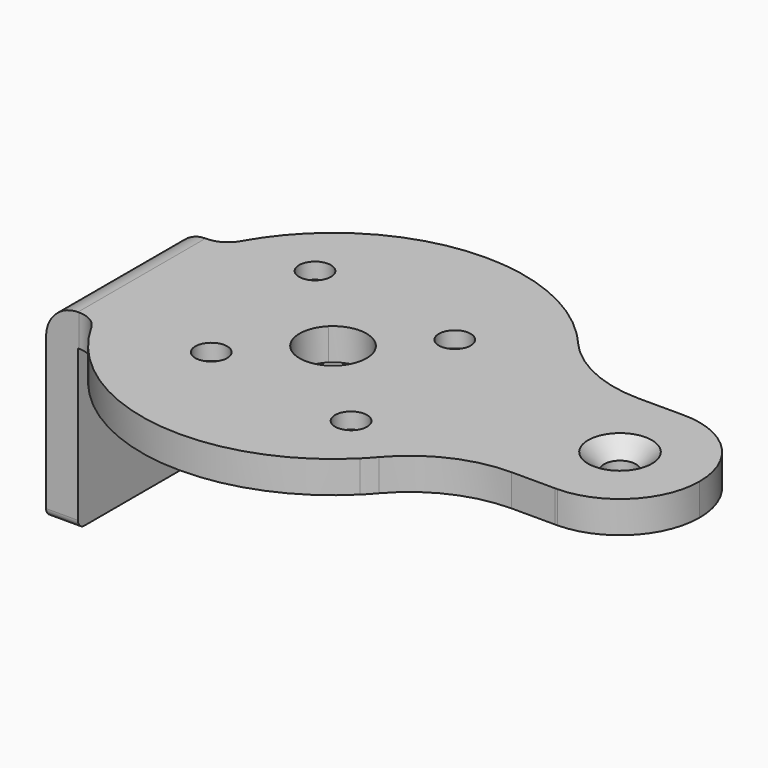
from build123d import *

# Parameters (mm, degrees)
F1_DEPTH        = 2
F3_DEPTH        = 5
F4_R            = 1.7
F5_R            = 1.7
F7_D            = 2
F7_CSINK_D      = 4
F7_CSINK_ANGLE  = 90
F8_DEPTH        = 2
F9_D            = 2
F9_CSINK_D      = 4
F9_CSINK_ANGLE  = 90
F10_R           = 0.5
F12_D           = 2
F12_CSINK_D     = 4
F12_CSINK_ANGLE = 90


with BuildPart() as f1:
    # F0 (on Top) → F1 (new body)
    with BuildSketch(Plane.XY):
        with BuildLine():
            ThreePointArc((10.9090595084, -4.9992420067), (11.7240930161, -2.5584454166), (12, 0))
            ThreePointArc((12, 0), (11.7240719072, 2.5585421465), (10.9089770141, 4.9994220172))
            ThreePointArc((10.9089770141, 4.9994220172), (10.1116451525, 6.4617824406), (9.1195071029, 7.7996532103))
            ThreePointArc((9.1195071029, 7.7996532103), (8.8090672506, 8.1486400199), (8.4852813742, 8.4852813742))
            Line((8.4852813742, 8.4852813742), (5.6568542495, 5.6568542495))
            ThreePointArc((5.6568542495, 5.6568542495), (7.3910362601, 3.0614674589), (8, 0))
            ThreePointArc((8, 0), (7.3910362601, -3.0614674589), (5.6568542495, -5.6568542495))
            Line((5.6568542495, -5.6568542495), (8.4852813742, -8.4852813742))
            ThreePointArc((8.4852813742, -8.4852813742), (8.8091155041, -8.1485878553), (9.1195994764, -7.799545204))
            ThreePointArc((9.1195994764, -7.799545204), (10.1117367293, -6.4616391356), (10.9090595084, -4.9992420067))
        make_face()
        with BuildLine():
            ThreePointArc((10.9089770141, 4.9994220172), (11.7240719072, 2.5585421465), (12, 0))
            ThreePointArc((12, 0), (11.7240930161, -2.5584454166), (10.9090595084, -4.9992420067))
            Line((10.9090595084, -4.9992420067), (15.1993324607, -4.9992420067))
            Line((15.1993324607, -4.9992420067), (17.9129404916, -4.9992420067))
            ThreePointArc((17.9129404916, -4.9992420067), (13.0000030459, 0.0055189952), (17.9239770141, 4.9994220172))
            Line((17.9239770141, 4.9994220172), (15.1991785048, 4.9994220172))
            Line((15.1991785048, 4.9994220172), (10.9089770141, 4.9994220172))
        make_face()
        with BuildLine():
            ThreePointArc((9.1195071029, 7.7996532103), (10.1116451525, 6.4617824406), (10.9089770141, 4.9994220172))
            Line((10.9089770141, 4.9994220172), (15.1991785048, 4.9994220172))
            ThreePointArc((15.1991785048, 4.9994220172), (11.8524002372, 5.7331248014), (9.1195071029, 7.7996532103))
        make_face()
        with BuildLine():
            Line((15.1993324607, -4.9992420067), (10.9090595084, -4.9992420067))
            ThreePointArc((10.9090595084, -4.9992420067), (10.1117367293, -6.4616391356), (9.1195994764, -7.799545204))
            ThreePointArc((9.1195994764, -7.799545204), (11.8525111644, -5.7329646097), (15.1993324607, -4.9992420067))
        make_face()
        with BuildLine():
            Line((5.6568542495, 5.6568542495), (8.4852813742, 8.4852813742))
            ThreePointArc((8.4852813742, 8.4852813742), (0, 12), (-8.4852813742, 8.4852813742))
            Line((-8.4852813742, 8.4852813742), (-5.6568542495, 5.6568542495))
            ThreePointArc((-5.6568542495, 5.6568542495), (0, 8), (5.6568542495, 5.6568542495))
        make_face()
        with BuildLine():
            ThreePointArc((23, 0), (21.5085527693, 3.5623106918), (17.9239770141, 4.9994220172))
            ThreePointArc((17.9239770141, 4.9994220172), (13.0000030459, 0.0055189952), (17.9129404916, -4.9992420067))
            Line((17.9129404916, -4.9992420067), (18.0870595084, -4.9992420067))
            ThreePointArc((18.0870595084, -4.9992420067), (21.5661812589, -3.5046185568), (23, 0))
        make_face()
        with BuildLine():
            ThreePointArc((-8.4852813742, -8.4852813742), (0, -12), (8.4852813742, -8.4852813742))
            Line((8.4852813742, -8.4852813742), (5.6568542495, -5.6568542495))
            ThreePointArc((5.6568542495, -5.6568542495), (0, -8), (-5.6568542495, -5.6568542495))
            Line((-5.6568542495, -5.6568542495), (-8.4852813742, -8.4852813742))
        make_face()
        with BuildLine():
            Line((18.0870595084, -4.9992420067), (17.9129404916, -4.9992420067))
            ThreePointArc((17.9129404916, -4.9992420067), (18, -5), (18.0870595084, -4.9992420067))
        make_face()
        with BuildLine():
            Line((-5.6568542495, 5.6568542495), (-8.4852813742, 8.4852813742))
            ThreePointArc((-8.4852813742, 8.4852813742), (-12, 0), (-8.4852813742, -8.4852813742))
            Line((-8.4852813742, -8.4852813742), (-5.6568542495, -5.6568542495))
            ThreePointArc((-5.6568542495, -5.6568542495), (-8, 0), (-5.6568542495, 5.6568542495))
        make_face()
    extrude(amount=F1_DEPTH)

    # F2 (on Front) → F3 (join, symmetric)
    with BuildSketch(Plane.XZ):
        with BuildLine():
            Line((-11.9999999998, -10), (-11.9999999998, 0))
            Line((-11.9999999998, 0), (-8.9999999998, 0))
            Line((-8.9999999998, 0), (-8.9999999998, 2))
            Line((-8.9999999998, 2), (-11.9999999998, 2))
            ThreePointArc((-11.9999999998, 2), (-13.4142135622, 1.4142135624), (-13.9999999998, 0))
            Line((-13.9999999998, 0), (-13.9999999998, -10))
            Line((-13.9999999998, -10), (-11.9999999998, -10))
        make_face()
    extrude(amount=F3_DEPTH, both=True)

    # F4
    f4_edges = [f1.edges().sort_by_distance(p)[0] for p in [
        (-10.908712, -5, 1),
    ]]
    fillet(f4_edges, radius=F4_R)

    # F5
    f5_edges = [f1.edges().sort_by_distance(p)[0] for p in [
        (-10.908712, 5, 1),
    ]]
    fillet(f5_edges, radius=F5_R)

    # F7 (through all)
    with Locations(Plane.XY.offset(2)):
        with Locations((18, 0)):
            CounterSinkHole(F7_D / 2, F7_CSINK_D / 2, counter_sink_angle=F7_CSINK_ANGLE)

    # F0 (on Top) → F8 (join)
    with BuildSketch(Plane.XY):
        with BuildLine():
            Line((-4.2426406871, 4.2426406871), (-5.6568542495, 5.6568542495))
            ThreePointArc((-5.6568542495, 5.6568542495), (-8, 0), (-5.6568542495, -5.6568542495))
            Line((-5.6568542495, -5.6568542495), (-4.2426406871, -4.2426406871))
            ThreePointArc((-4.2426406871, -4.2426406871), (-6, 0), (-4.2426406871, 4.2426406871))
        make_face()
        with BuildLine():
            Line((4.2426406871, 4.2426406871), (5.6568542495, 5.6568542495))
            ThreePointArc((5.6568542495, 5.6568542495), (0, 8), (-5.6568542495, 5.6568542495))
            Line((-5.6568542495, 5.6568542495), (-4.2426406871, 4.2426406871))
            ThreePointArc((-4.2426406871, 4.2426406871), (0, 6), (4.2426406871, 4.2426406871))
        make_face()
        with BuildLine():
            ThreePointArc((8, 0), (7.3910362601, 3.0614674589), (5.6568542495, 5.6568542495))
            Line((5.6568542495, 5.6568542495), (4.2426406871, 4.2426406871))
            ThreePointArc((4.2426406871, 4.2426406871), (5.5432771951, 2.2961005942), (6, 0))
            ThreePointArc((6, 0), (5.5432771951, -2.2961005942), (4.2426406871, -4.2426406871))
            Line((4.2426406871, -4.2426406871), (5.6568542495, -5.6568542495))
            ThreePointArc((5.6568542495, -5.6568542495), (7.3910362601, -3.0614674589), (8, 0))
        make_face()
        with BuildLine():
            ThreePointArc((6, 0), (5.5432771951, 2.2961005942), (4.2426406871, 4.2426406871))
            Line((4.2426406871, 4.2426406871), (1.4849242405, 1.4849242405))
            ThreePointArc((1.4849242405, 1.4849242405), (1.9401470183, 0.803635208), (2.1, 0))
            ThreePointArc((2.1, 0), (1.9401470183, -0.803635208), (1.4849242405, -1.4849242405))
            Line((1.4849242405, -1.4849242405), (4.2426406871, -4.2426406871))
            ThreePointArc((4.2426406871, -4.2426406871), (5.5432771951, -2.2961005942), (6, 0))
        make_face()
        with BuildLine():
            ThreePointArc((-4.2426406871, -4.2426406871), (0, -6), (4.2426406871, -4.2426406871))
            Line((4.2426406871, -4.2426406871), (1.4849242405, -1.4849242405))
            ThreePointArc((1.4849242405, -1.4849242405), (0, -2.1), (-1.4849242405, -1.4849242405))
            Line((-1.4849242405, -1.4849242405), (-4.2426406871, -4.2426406871))
        make_face()
        with BuildLine():
            Line((-1.4849242405, 1.4849242405), (-4.2426406871, 4.2426406871))
            ThreePointArc((-4.2426406871, 4.2426406871), (-6, 0), (-4.2426406871, -4.2426406871))
            Line((-4.2426406871, -4.2426406871), (-1.4849242405, -1.4849242405))
            ThreePointArc((-1.4849242405, -1.4849242405), (-2.1, 0), (-1.4849242405, 1.4849242405))
        make_face()
        with BuildLine():
            Line((1.4849242405, 1.4849242405), (4.2426406871, 4.2426406871))
            ThreePointArc((4.2426406871, 4.2426406871), (0, 6), (-4.2426406871, 4.2426406871))
            Line((-4.2426406871, 4.2426406871), (-1.4849242405, 1.4849242405))
            ThreePointArc((-1.4849242405, 1.4849242405), (0, 2.1), (1.4849242405, 1.4849242405))
        make_face()
        with BuildLine():
            ThreePointArc((-5.6568542495, -5.6568542495), (0, -8), (5.6568542495, -5.6568542495))
            Line((5.6568542495, -5.6568542495), (4.2426406871, -4.2426406871))
            ThreePointArc((4.2426406871, -4.2426406871), (0, -6), (-4.2426406871, -4.2426406871))
            Line((-4.2426406871, -4.2426406871), (-5.6568542495, -5.6568542495))
        make_face()
    extrude(amount=F8_DEPTH)

    # F9 (through all)
    with Locations(Plane(origin=(0, 0, 0), x_dir=(1, 0, 0), z_dir=(0, 0, -1))):
        with Locations((-4.2426406871, 4.2426406871), (5.6568542495, 5.6568542495), (4.2426406871, -4.2426406871), (-5.6568542495, -5.6568542495)):
            CounterSinkHole(F9_D / 2, F9_CSINK_D / 2, counter_sink_angle=F9_CSINK_ANGLE)

    # F10
    f10_edges = [f1.edges().sort_by_distance(p)[0] for p in [
        (-13, -5, -10),
        (-13, 5, -10),
    ]]
    fillet(f10_edges, radius=F10_R)

    # F12 (through all)
    with Locations(Plane(origin=(-13.9999999998, 0, 0), x_dir=(0, -1, 0), z_dir=(-1, 0, 0))):
        with Locations((0, -5)):
            CounterSinkHole(F12_D / 2, F12_CSINK_D / 2, counter_sink_angle=F12_CSINK_ANGLE)


solid = f1.part
